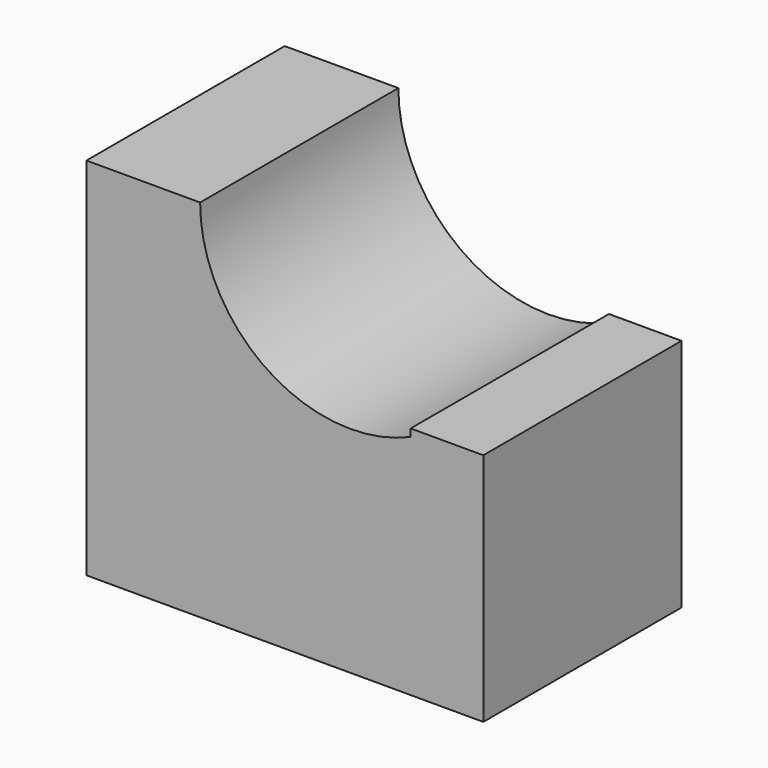
from build123d import *

# Parameters (mm, degrees)
F0_W     = 11.648823
F0_H     = 37.427112
F1_DEPTH = 25.4


with BuildPart() as f1:
    # F0 (on Front) → F1 (new body)
    with BuildSketch(Plane.XZ):
        with BuildLine():
            Line((-5.917178, 0), (0, 0))
            Line((0, 0), (0, 24.060287))
            Line((0, 24.060287), (-5.917178, 24.060287))
            ThreePointArc((-5.917178, 24.060287), (-6.670362, 23.654518), (-7.444892, 23.291148))
            Line((-7.444892, 23.291148), (-7.444892, 0))
            Line((-7.444892, 0), (-5.917178, 0))
        make_face()
        with BuildLine():
            ThreePointArc((-7.444892, 23.291148), (-6.670362, 23.654518), (-5.917178, 24.060287))
            Line((-5.917178, 24.060287), (-7.444892, 24.060287))
            Line((-7.444892, 24.060287), (-7.444892, 23.291148))
        make_face()
        with BuildLine():
            Line((-27.114214, 0), (-7.444892, 0))
            Line((-7.444892, 0), (-7.444892, 23.291148))
            ThreePointArc((-7.444892, 23.291148), (-22.053783, 24.52869), (-29.023856, 37.427112))
            Line((-29.023856, 37.427112), (-29.023856, 0))
            Line((-29.023856, 0), (-27.114214, 0))
        make_face()
        with Locations((-34.848267, 18.713556)):
            Rectangle(F0_W, F0_H)
    extrude(amount=F1_DEPTH)


solid = f1.part
